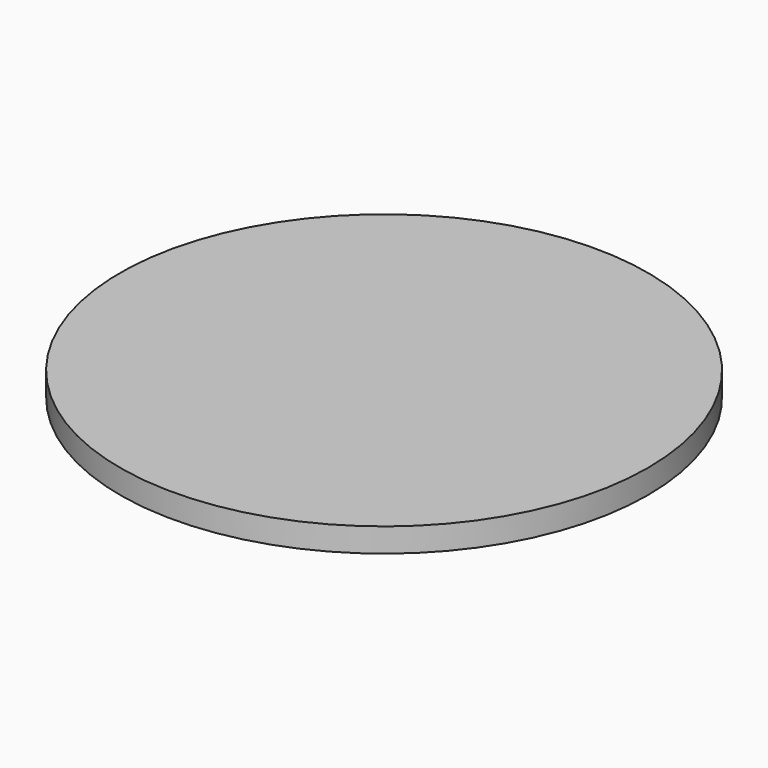
from build123d import *

# Parameters (mm, degrees)
SKETCH_R  = 11
PAD_DEPTH = 1


with BuildPart() as part:
    # Sketch → Pad (new body)
    with BuildSketch(Plane.XY):
        Circle(SKETCH_R)
    extrude(amount=PAD_DEPTH)


solid = part.part
